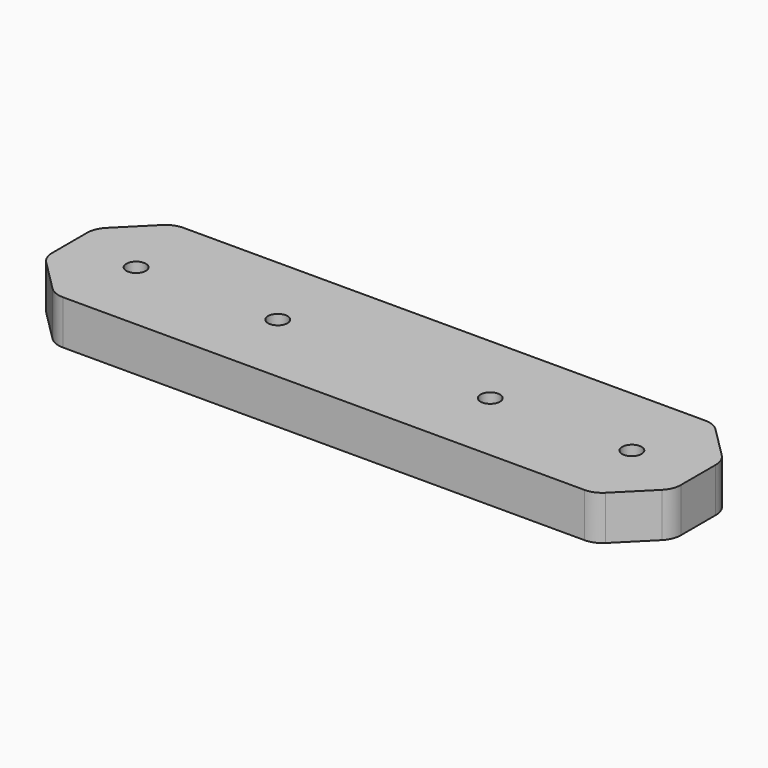
from build123d import *

# Parameters (mm, degrees)
F0_W     = 142
F0_H     = 34
F1_DEPTH = 10
F3_D     = 4.4
F4_SIZE  = 10
F5_R     = 5


with BuildPart() as f1:
    # F0 (on Top) → F1 (new body)
    with BuildSketch(Plane.XY):
        Rectangle(F0_W, F0_H)
    extrude(amount=F1_DEPTH)

    # F3 (through all)
    with Locations(Plane.XY.offset(10)):
        with Locations((-56, 0), (-24, 0), (24, 0), (56, 0)):
            Hole(F3_D / 2)

    # F4
    f4_edges = [f1.edges().sort_by_distance(p)[0] for p in [
        (-71, -17, 5),
        (71, -17, 5),
        (71, 17, 5),
        (-71, 17, 5),
    ]]
    chamfer(f4_edges, length=F4_SIZE)

    # F5
    f5_edges = [f1.edges().sort_by_distance(p)[0] for p in [
        (-61, -17, 5),
        (-71, -7, 5),
        (61, -17, 5),
        (71, -7, 5),
        (71, 7, 5),
        (61, 17, 5),
        (-61, 17, 5),
        (-71, 7, 5),
    ]]
    fillet(f5_edges, radius=F5_R)


solid = f1.part
